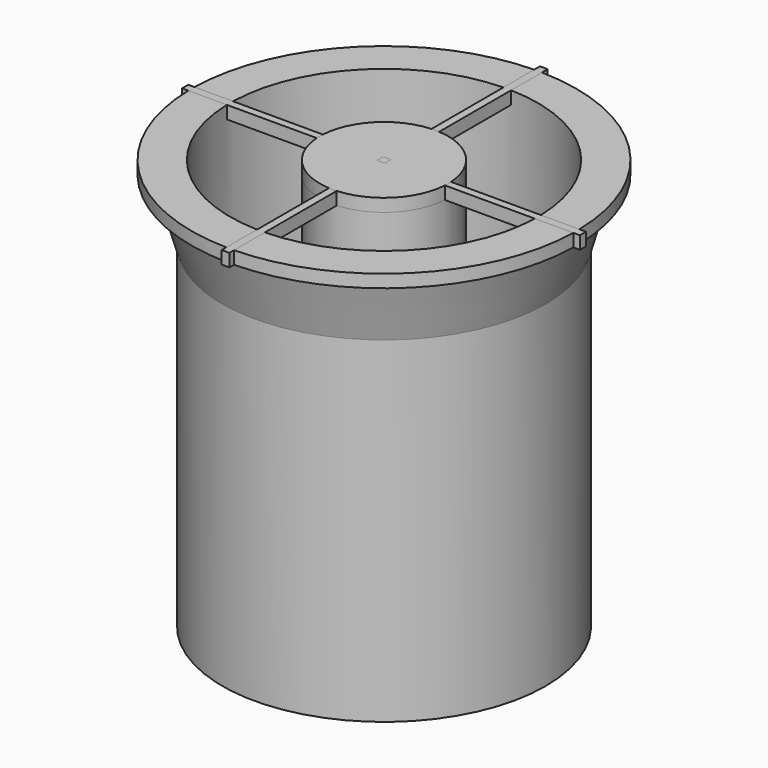
from build123d import *

# Parameters (mm, degrees)
F4_DEPTH = 5
F7_DEPTH = 155.001
F8_DEPTH = 155.001


with BuildPart() as f1:
    # F0 (on Front) → F1 (revolve)
    with BuildSketch(Plane.XZ):
        with BuildLine():
            Line((0, 160), (0, 15))
            Line((0, 15), (17, 15))
            ThreePointArc((17, 15), (22.6568542495, 17.3431457505), (25, 23))
            Line((25, 23), (25, 160))
            Line((25, 160), (0, 160))
        make_face()
    revolve(axis=Axis((0, 0, 87.5), (0, 0, -1)))

    # F3 (on offset) → F4 (join)
    with BuildSketch(Plane.XY.offset(160)):
        with BuildLine():
            Line((-77.4360820651, 1.4515812248), (-77.4360820651, -1.5484187752))
            Line((-77.4360820651, -1.5484187752), (-24.9520019096, -1.5484187752))
            ThreePointArc((-24.9520019096, -1.5484187752), (-24.999952943, -0.0485061653), (-24.9578226604, 1.4515812248))
            Line((-24.9578226604, 1.4515812248), (-77.4360820651, 1.4515812248))
        make_face()
        with BuildLine():
            ThreePointArc((-24.9578226604, 1.4515812248), (-24.999952943, -0.0485061653), (-24.9520019096, -1.5484187752))
            Line((-24.9520019096, -1.5484187752), (-1.4620974865, -1.5484187752))
            Line((-1.4620974865, -1.5484187752), (-1.4620974865, 1.4515812248))
            Line((-1.4620974865, 1.4515812248), (-24.9578226604, 1.4515812248))
        make_face()
        with BuildLine():
            Line((-1.4620974865, -1.5484187752), (-24.9520019096, -1.5484187752))
            ThreePointArc((-24.9520019096, -1.5484187752), (-17.6470684335, -17.7082177449), (-1.4620974865, -24.9572087971))
            Line((-1.4620974865, -24.9572087971), (-1.4620974865, -1.5484187752))
        make_face()
        with BuildLine():
            Line((1.5379025135, -1.5484187752), (-1.4620974865, -1.5484187752))
            Line((-1.4620974865, -1.5484187752), (-1.4620974865, -24.9572087971))
            ThreePointArc((-1.4620974865, -24.9572087971), (0.037970923, -24.9999711642), (1.5379025135, -24.952652281))
            Line((1.5379025135, -24.952652281), (1.5379025135, -1.5484187752))
        make_face()
        with BuildLine():
            ThreePointArc((-1.4620974865, 24.9572087971), (-17.6813935263, 17.6739447483), (-24.9578226604, 1.4515812248))
            Line((-24.9578226604, 1.4515812248), (-1.4620974865, 1.4515812248))
            Line((-1.4620974865, 1.4515812248), (-1.4620974865, 24.9572087971))
        make_face()
        with BuildLine():
            ThreePointArc((1.5379025135, -24.952652281), (0.037970923, -24.9999711642), (-1.4620974865, -24.9572087971))
            Line((-1.4620974865, -24.9572087971), (-1.4620974865, -77.2232338786))
            Line((-1.4620974865, -77.2232338786), (1.5379025135, -77.2232338786))
            Line((1.5379025135, -77.2232338786), (1.5379025135, -24.952652281))
        make_face()
        with BuildLine():
            Line((1.5379025135, 1.4515812248), (1.5379025135, -1.5484187752))
            Line((1.5379025135, -1.5484187752), (24.9520019096, -1.5484187752))
            ThreePointArc((24.9520019096, -1.5484187752), (24.9879975962, -0.7745812611), (25, 0))
            ThreePointArc((25, 0), (24.9894534405, 0.7260969254), (24.9578226604, 1.4515812248))
            Line((24.9578226604, 1.4515812248), (1.5379025135, 1.4515812248))
        make_face()
        with BuildLine():
            Line((24.9520019096, -1.5484187752), (1.5379025135, -1.5484187752))
            Line((1.5379025135, -1.5484187752), (1.5379025135, -24.952652281))
            ThreePointArc((1.5379025135, -24.952652281), (17.6739439737, -17.6813943006), (24.9520019096, -1.5484187752))
        make_face()
        with BuildLine():
            Line((-1.4620974865, 24.9572087971), (-1.4620974865, 1.4515812248))
            Line((-1.4620974865, 1.4515812248), (1.5379025135, 1.4515812248))
            Line((1.5379025135, 1.4515812248), (1.5379025135, 24.952652281))
            ThreePointArc((1.5379025135, 24.952652281), (0.037970923, 24.9999711642), (-1.4620974865, 24.9572087971))
        make_face()
        with BuildLine():
            Line((-1.4620974865, 77.7767661214), (-1.4620974865, 24.9572087971))
            ThreePointArc((-1.4620974865, 24.9572087971), (0.037970923, 24.9999711642), (1.5379025135, 24.952652281))
            Line((1.5379025135, 24.952652281), (1.5379025135, 77.7767661214))
            Line((1.5379025135, 77.7767661214), (-1.4620974865, 77.7767661214))
        make_face()
        with BuildLine():
            ThreePointArc((25, 0), (24.9879975962, -0.7745812611), (24.9520019096, -1.5484187752))
            Line((24.9520019096, -1.5484187752), (77.5639179349, -1.5484187752))
            Line((77.5639179349, -1.5484187752), (77.5639179349, 1.4515812248))
            Line((77.5639179349, 1.4515812248), (24.9578226604, 1.4515812248))
            ThreePointArc((24.9578226604, 1.4515812248), (24.9894534405, 0.7260969254), (25, 0))
        make_face()
        with BuildLine():
            Line((1.5379025135, 24.952652281), (1.5379025135, 1.4515812248))
            Line((1.5379025135, 1.4515812248), (24.9578226604, 1.4515812248))
            ThreePointArc((24.9578226604, 1.4515812248), (17.7082169718, 17.6470692093), (1.5379025135, 24.952652281))
        make_face()
    extrude(amount=-F4_DEPTH)


with BuildPart() as f6:
    # F5 (on Front) → F6 (revolve)
    with BuildSketch(Plane.XZ):
        with BuildLine():
            Line((0, 3), (0, 0))
            Line((0, 0), (63, 0))
            Line((63, 0), (63, 131))
            Line((63, 131), (70, 155))
            Line((70, 155), (75, 155))
            Line((75, 155), (75, 160))
            Line((75, 160), (60, 160))
            Line((60, 160), (60, 13))
            ThreePointArc((60, 13), (57.0710678119, 5.9289321881), (50, 3))
            Line((50, 3), (0, 3))
        make_face()
    revolve(axis=Axis((0, 0, 1.5), (0, 0, -1)))

    # F7 (cut, through all): a face of the model
    f7_faces = [f1.part.faces().sort_by_distance(p)[0] for p in [
        (0.0379025135, -77.2232338786, 157.5),
    ]]
    extrude(f7_faces, amount=-F7_DEPTH, mode=Mode.SUBTRACT)

    # F8 (cut, through all): a face of the model
    f8_faces = [f1.part.faces().sort_by_distance(p)[0] for p in [
        (-77.4360820651, -0.0484187752, 157.5),
    ]]
    extrude(f8_faces, amount=-F8_DEPTH, mode=Mode.SUBTRACT)


solid = Compound([f1.part, f6.part])
